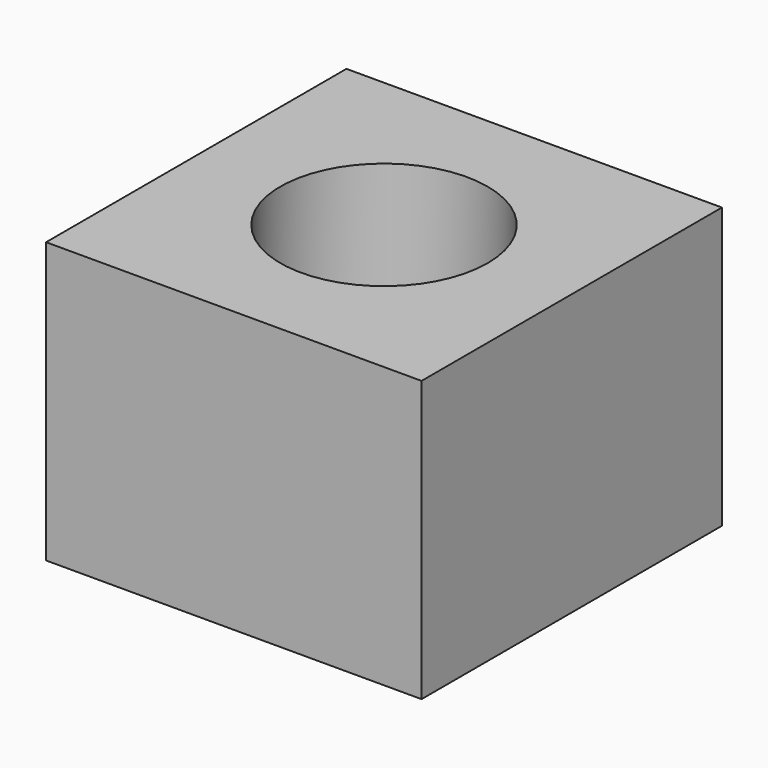
from build123d import *

# Parameters (mm, degrees)
F0_W     = 13.4
F0_H     = 13.4
F0_R     = 2.2
F1_DEPTH = 6
F2_W     = 13.4
F2_H     = 13.4
F2_R     = 3.7
F3_DEPTH = 4


with BuildPart() as f1:
    # F0 (on Top) → F1 (new body)
    with BuildSketch(Plane.XY):
        Rectangle(F0_W, F0_H)
        Circle(F0_R, mode=Mode.SUBTRACT)
    extrude(amount=F1_DEPTH)

    # F2 (on face) → F3 (join)
    with BuildSketch(Plane.XY.offset(6)):
        Rectangle(F2_W, F2_H)
        Circle(F2_R, mode=Mode.SUBTRACT)
    extrude(amount=F3_DEPTH)


solid = f1.part
